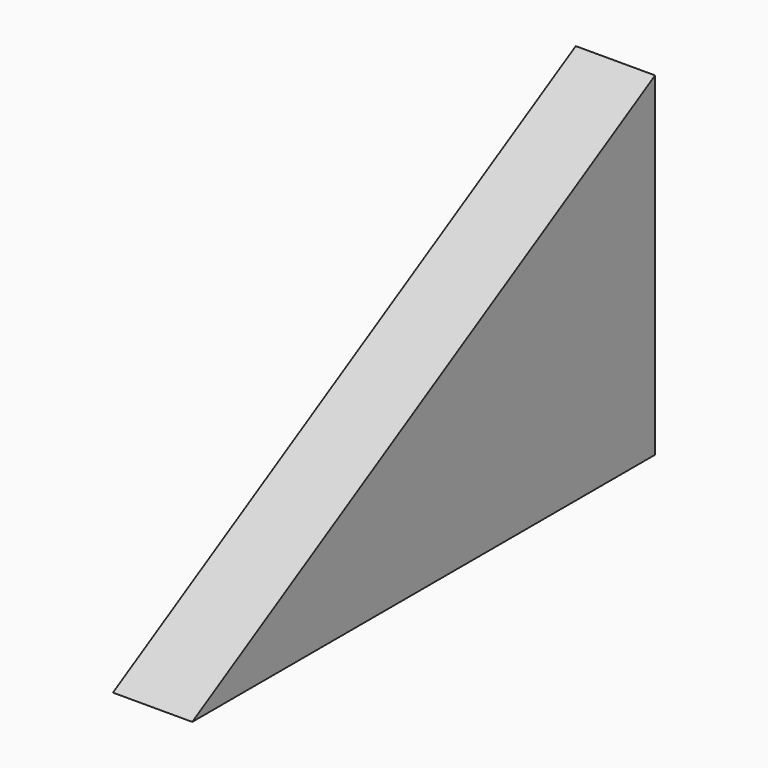
from build123d import *

# Parameters (mm, degrees)
F1_DEPTH = 12.7


with BuildPart() as f1:
    # F0 (on Right) → F1 (new body, symmetric)
    with BuildSketch(Plane.YZ):
        Polygon((0, 106.9721), (-185.281112, 0), (0, 0), align=None)
    extrude(amount=F1_DEPTH, both=True)


solid = f1.part
